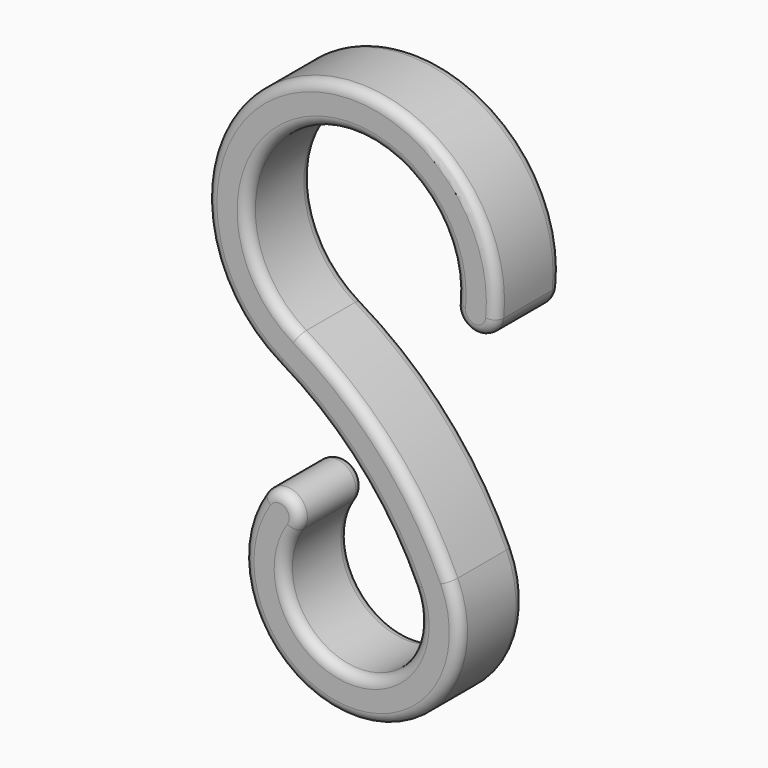
from build123d import *

# Parameters (mm, degrees)
F1_DEPTH = 12
F2_R     = 1.5


with BuildPart() as f1:
    # F0 (on Front) → F1 (new body)
    with BuildSketch(Plane.XZ):
        with BuildLine():
            ThreePointArc((-7.896756, -13.337587), (-6.972636, 13.843134), (15.417788, -1.594304))
            ThreePointArc((15.417788, -1.594304), (18.093301, -4.886967), (21.385964, -2.211454))
            ThreePointArc((21.385964, -2.211454), (-9.671721, 19.201766), (-10.953565, -18.500524))
            ThreePointArc((-10.953565, -18.500524), (0.796505, -28.14218), (9.106743, -40.86875))
            ThreePointArc((9.106743, -40.86875), (-0.841869, -54.9645), (-8.284532, -39.399416))
            ThreePointArc((-8.284532, -39.399416), (-9.089716, -35.233882), (-13.255251, -36.039066))
            ThreePointArc((-13.255251, -36.039066), (-1.34699, -60.9432), (14.570789, -38.39))
            ThreePointArc((14.570789, -38.39), (5.263322, -24.136241), (-7.896756, -13.337587))
        make_face()
    extrude(amount=F1_DEPTH)

    # F2
    f2_edges = [f1.edges().sort_by_distance(p)[0] for p in [
        (-9.671721, -12, 19.201766),
        (-9.671721, 0, 19.201766),
    ]]
    fillet(f2_edges, radius=F2_R)


solid = f1.part
